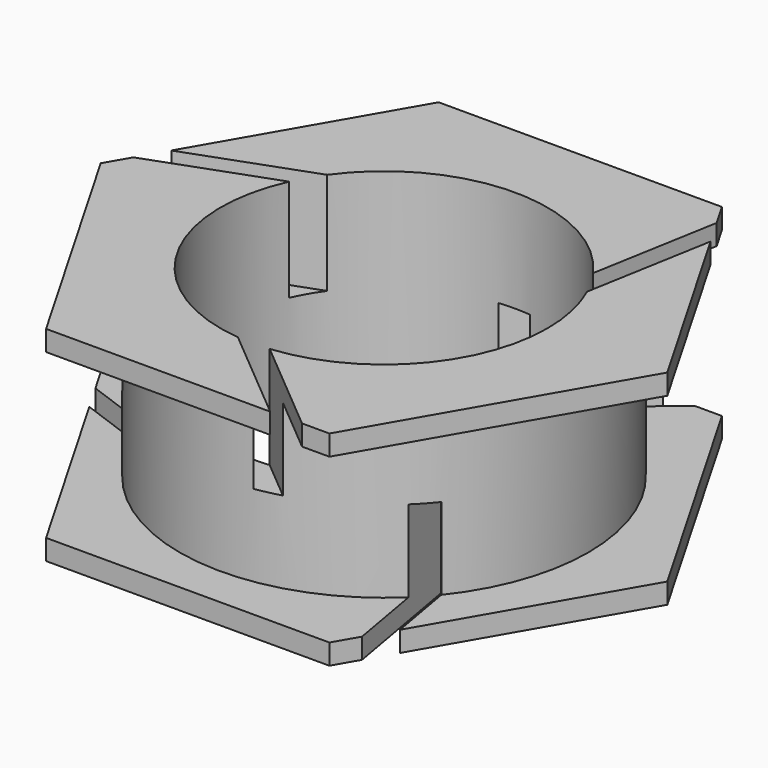
from build123d import *

# Parameters (mm, degrees)
F0_R     = 12.7
F0_R_2   = 10.16
F1_DEPTH = 6.35
F2_R     = 17.5976362049
F2_R_2   = 12.7
F3_DEPTH = 5.08
F5_DEPTH = 6.35
F7_DEPTH = 6.35


with BuildPart() as f1:
    # F0 (on Top) → F1 (new body, symmetric)
    with BuildSketch(Plane.XY):
        Polygon((17.5976362049, 0), (8.7988181024, 15.24), (-8.7988181024, 15.24), (-17.5976362049, 0), (-8.7988181024, -15.24), (8.7988181024, -15.24), align=None)
        Circle(F0_R, mode=Mode.SUBTRACT)
        Circle(F0_R)
        Circle(F0_R_2, mode=Mode.SUBTRACT)
    extrude(amount=F1_DEPTH, both=True)

    # F2 (on Top) → F3 (cut, symmetric)
    with BuildSketch(Plane.XY):
        Circle(F2_R)
        Circle(F2_R_2, mode=Mode.SUBTRACT)
    extrude(amount=F3_DEPTH, both=True, mode=Mode.SUBTRACT)

    # F4 (on face) → F5 (cut)
    with BuildSketch(Plane.XY.offset(6.35)):
        with BuildLine():
            Line((-8.2631840954, 5.911462476), (-15.7600253185, 3.1828354198))
            Line((-15.7600253185, 3.1828354198), (-16.7479099485, 1.4717690485))
            Line((-16.7479099485, 1.4717690485), (-9.2510687255, 4.2003961048))
            ThreePointArc((-9.2510687255, 4.2003961048), (-8.7988181024, 5.08), (-8.2631840954, 5.911462476))
        make_face()
        with BuildLine():
            ThreePointArc((0.9878846301, -10.1118585808), (0, -10.16), (-0.9878846301, -10.1118585808))
            Line((-0.9878846301, -10.1118585808), (5.1235963296, -15.24))
            Line((5.1235963296, -15.24), (7.0993655897, -15.24))
            Line((7.0993655897, -15.24), (0.9878846301, -10.1118585808))
        make_face()
        with BuildLine():
            Line((9.6485443588, 13.7682309515), (8.2631840954, 5.911462476))
            ThreePointArc((8.2631840954, 5.911462476), (8.7988181024, 5.08), (9.2510687255, 4.2003961048))
            Line((9.2510687255, 4.2003961048), (10.6364289889, 12.0571645802))
            Line((10.6364289889, 12.0571645802), (9.6485443588, 13.7682309515))
        make_face()
    extrude(amount=-F5_DEPTH, mode=Mode.SUBTRACT)

    # F6 (on face) → F7 (cut)
    with BuildSketch(Plane(origin=(0, 0, -6.35), x_dir=(1, 0, 0), z_dir=(0, 0, -1))):
        with BuildLine():
            Line((9.6485443588, 13.7682309515), (8.2631840954, 5.911462476))
            ThreePointArc((8.2631840954, 5.911462476), (8.7988181024, 5.08), (9.2510687255, 4.2003961048))
            Line((9.2510687255, 4.2003961048), (10.6364289889, 12.0571645802))
            Line((10.6364289889, 12.0571645802), (9.6485443588, 13.7682309515))
        make_face()
        with BuildLine():
            Line((-8.2631840954, 5.911462476), (-15.7600253185, 3.1828354198))
            Line((-15.7600253185, 3.1828354198), (-16.7479099485, 1.4717690485))
            Line((-16.7479099485, 1.4717690485), (-9.2510687255, 4.2003961048))
            ThreePointArc((-9.2510687255, 4.2003961048), (-8.7988181024, 5.08), (-8.2631840954, 5.911462476))
        make_face()
        with BuildLine():
            ThreePointArc((0.9878846301, -10.1118585808), (0, -10.16), (-0.9878846301, -10.1118585808))
            Line((-0.9878846301, -10.1118585808), (5.1235963296, -15.24))
            Line((5.1235963296, -15.24), (7.0993655897, -15.24))
            Line((7.0993655897, -15.24), (0.9878846301, -10.1118585808))
        make_face()
    extrude(amount=-F7_DEPTH, mode=Mode.SUBTRACT)


solid = f1.part
